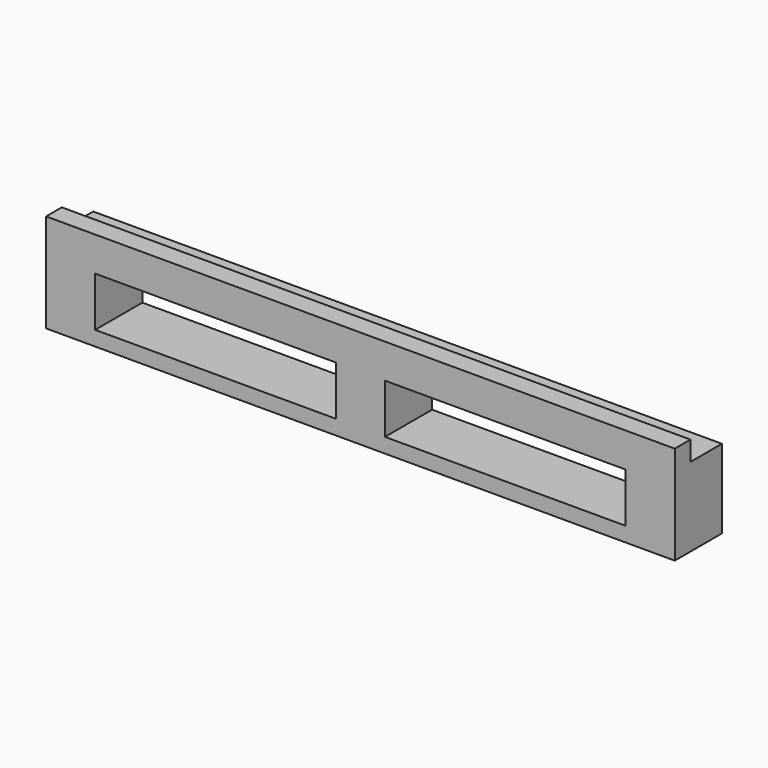
from build123d import *

# Parameters (mm, degrees)
F0_W     = 101.6
F0_H     = 9.525
F1_DEPTH = 12.762509
F2_W     = 101.6
F2_H     = 3.175
F3_DEPTH = 3.175
F4_W     = 38.89375
F4_H     = 8.000009
F5_DEPTH = 9.525
F6_R     = 1.35255
F7_DEPTH = 10.381259


with BuildPart() as f1:
    # F0 (on Top) → F1 (new body)
    with BuildSketch(Plane.XY):
        with Locations((50.8, -4.7625)):
            Rectangle(F0_W, F0_H)
    extrude(amount=F1_DEPTH)

    # F2 (on face) → F3 (join)
    with BuildSketch(Plane.XY.offset(12.762509)):
        with Locations((50.8, -7.9375)):
            Rectangle(F2_W, F2_H)
    extrude(amount=F3_DEPTH)

    # F4 (on face) → F5 (cut, through all)
    with BuildSketch(Plane(origin=(0, 0, 0), x_dir=(-1, 0, 0), z_dir=(0, 1, 0))):
        with Locations((-74.215625, 6.381254)):
            Rectangle(F4_W, F4_H)
        with Locations((-27.384375, 6.381254)):
            Rectangle(F4_W, F4_H)
    extrude(amount=-F5_DEPTH, mode=Mode.SUBTRACT)

    # F6 (on face) → F7 (cut, through all)
    with BuildSketch(Plane(origin=(0, 0, 0), x_dir=(1, 0, 0), z_dir=(0, 0, -1))):
        with Locations((96.8375, 4.7625)):
            Circle(F6_R)
        with Locations((50.8, 4.7625)):
            Circle(F6_R)
        with Locations((4.7625, 4.7625)):
            Circle(F6_R)
    extrude(amount=-F7_DEPTH, mode=Mode.SUBTRACT)


solid = f1.part
